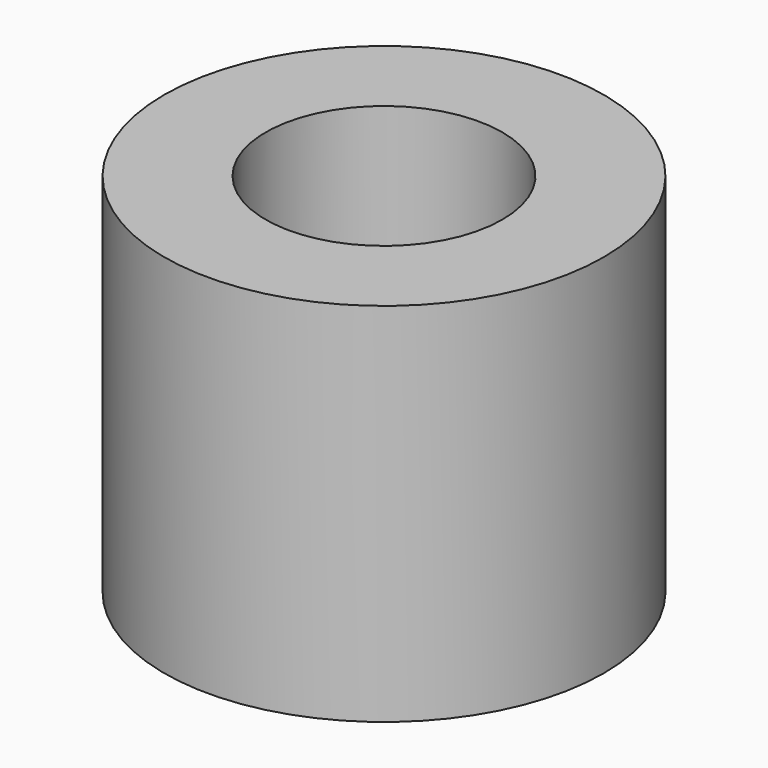
from build123d import *

# Parameters (mm, degrees)
F0_R     = 30
F0_R_2   = 16.15
F1_DEPTH = 50
F2_R     = 15.9833570906
F3_DEPTH = 20
F6_DEPTH = 5
F7_R     = 5
F8_DEPTH = 5
F9_DEPTH = 5


with BuildPart() as f1:
    # F0 (on Top) → F1 (new body)
    with BuildSketch(Plane.XY):
        Circle(F0_R)
        Circle(F0_R_2, mode=Mode.SUBTRACT)
    extrude(amount=F1_DEPTH)

    # F7 (on face) → F8 (cut)
    with BuildSketch(Plane.XY.offset(20)):
        Circle(F7_R)
    extrude(amount=-F8_DEPTH, mode=Mode.SUBTRACT)

    # F7 (on face) → F9 (cut)
    with BuildSketch(Plane.XY.offset(20)):
        Circle(F7_R)
    extrude(amount=-F9_DEPTH, mode=Mode.SUBTRACT)


with BuildPart() as f3:
    # F2 (on Top) → F3 (new body)
    with BuildSketch(Plane.XY):
        Circle(F2_R)
    extrude(amount=F3_DEPTH)

    # F5 (on face) → F6 (cut)
    with BuildSketch(Plane.XY.offset(20)):
        Polygon((-5.0526188535, 12.6676582507), (-11.5335172194, 7.2784959563), (-13.6090040174, -0.8908044065), (-10.4863138337, -8.7198477634), (-3.3582081823, -13.2182056513), (5.0526188535, -12.6676582507), (11.5335172194, -7.2784959563), (13.6090040174, 0.8908044065), (10.4863138337, 8.7198477634), (3.3582081823, 13.2182056513), align=None)
    extrude(amount=-F6_DEPTH, mode=Mode.SUBTRACT)


solid = Compound([f1.part, f3.part])
